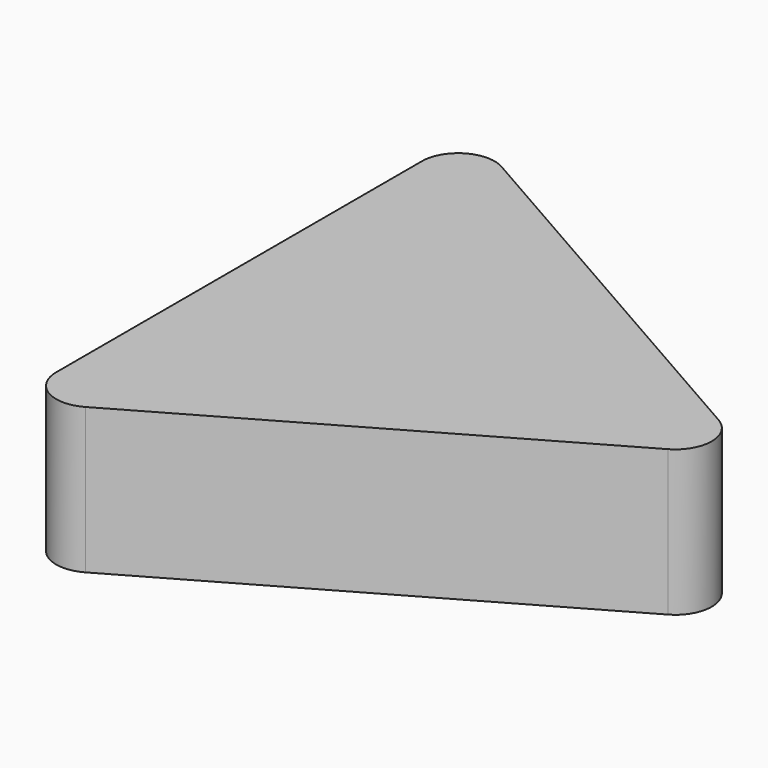
from build123d import *

# Parameters (mm, degrees)
F1_DEPTH = 1


with BuildPart() as f1:
    # F0 (on Top) → F1 (new body, symmetric)
    with BuildSketch(Plane.XY):
        with BuildLine():
            ThreePointArc((2.7402872506, -0.4341215711), (2.9922177815, 0), (2.7402872506, 0.4341215711))
            Line((2.7402872506, 0.4341215711), (-2.7519305308, 3.5725317319))
            ThreePointArc((-2.7519305308, 3.5725317319), (-3.2509634091, 3.5708652074), (-3.5, 3.1384101608))
            Line((-3.5, 3.1384101608), (-3.5, -3.1384101608))
            ThreePointArc((-3.5, -3.1384101608), (-3.2509634091, -3.5708652074), (-2.7519305308, -3.5725317319))
            Line((-2.7519305308, -3.5725317319), (2.7402872506, -0.4341215711))
        make_face()
    extrude(amount=F1_DEPTH, both=True)


solid = f1.part
